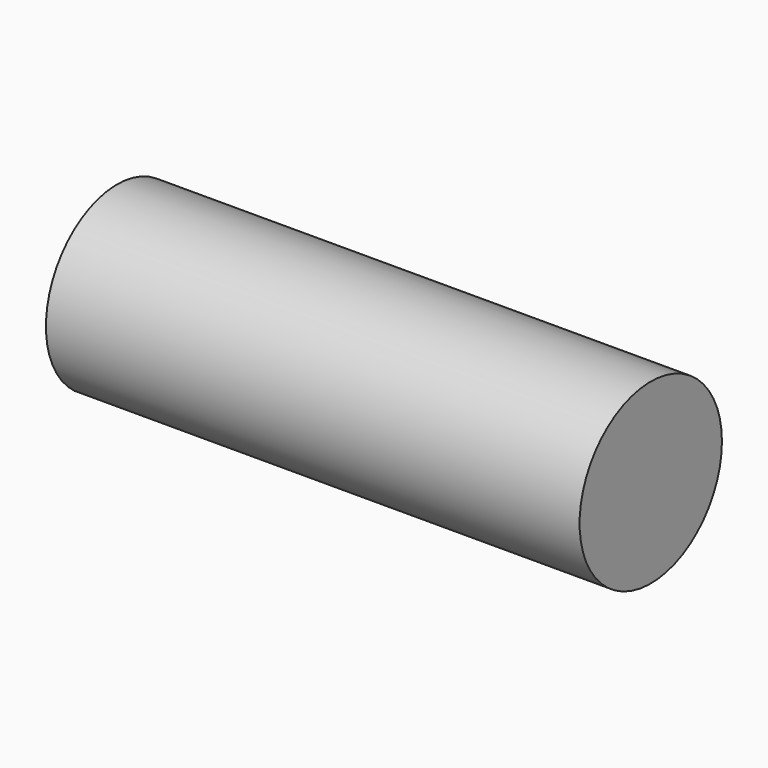
from build123d import *

# Parameters (mm, degrees)
F0_R     = 6.35
F0_R_2   = 3.175
F1_DEPTH = 31.75
F2_R     = 6.35
F3_DEPTH = 6.35


with BuildPart() as f1:
    # F0 (on Right) → F1 (new body)
    with BuildSketch(Plane.YZ):
        Circle(F0_R)
        Circle(F0_R_2, mode=Mode.SUBTRACT)
    extrude(amount=F1_DEPTH)

    # F2 (on face) → F3 (join)
    with BuildSketch(Plane.YZ.offset(31.75)):
        Circle(F2_R)
    extrude(amount=F3_DEPTH)


solid = f1.part
